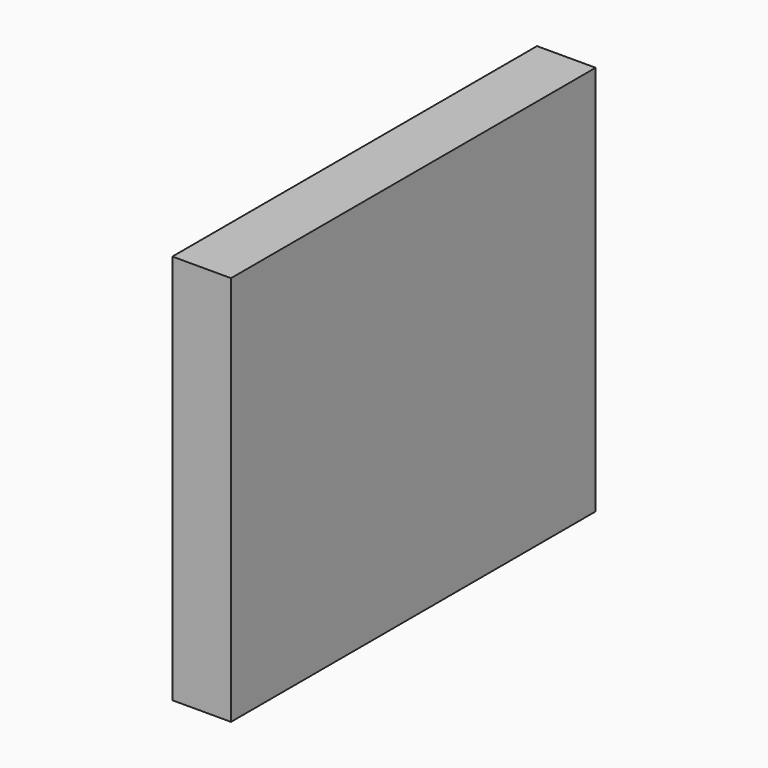
from build123d import *

# Parameters (mm, degrees)
F0_W     = 80
F0_H     = 60
F1_DEPTH = 9
F2_W     = 5
F2_H     = 9
F3_DEPTH = 5
F5_DEPTH = 5
F6_DEPTH = 5


with BuildPart() as f1:
    # F0 (on Right) → F1 (new body)
    with BuildSketch(Plane.YZ):
        with Locations((40, 30)):
            Rectangle(F0_W, F0_H)
    extrude(amount=F1_DEPTH)

    # F2 (on face) → F3 (join)
    with BuildSketch(Plane.YZ.offset(9)):
        with Locations((77.5, 55.5)):
            Rectangle(F2_W, F2_H)
        with Locations((2.5, 55.5)):
            Rectangle(F2_W, F2_H)
        with Locations((2.5, 4.5)):
            Rectangle(F2_W, F2_H)
        with Locations((77.5, 4.5)):
            Rectangle(F2_W, F2_H)
    extrude(amount=F3_DEPTH)

    # F4 (on face) → F5 (cut, through all)
    with BuildSketch(Plane(origin=(0, 80, 0), x_dir=(-1, 0, 0), z_dir=(0, 1, 0))):
        Polygon((0, 60), (-14, 60), (-14, 51), (-9, 51), (-9, 9), (-14, 9), (-14, 0), (0, 0), align=None)
    extrude(amount=-F5_DEPTH, mode=Mode.SUBTRACT)

    # F6 (cut, through all): a face of the model
    f6_faces = [f1.faces().sort_by_distance(p)[0] for p in [
        (5.5, 0, 30),
    ]]
    extrude(f6_faces, amount=-F6_DEPTH, mode=Mode.SUBTRACT)


solid = f1.part
